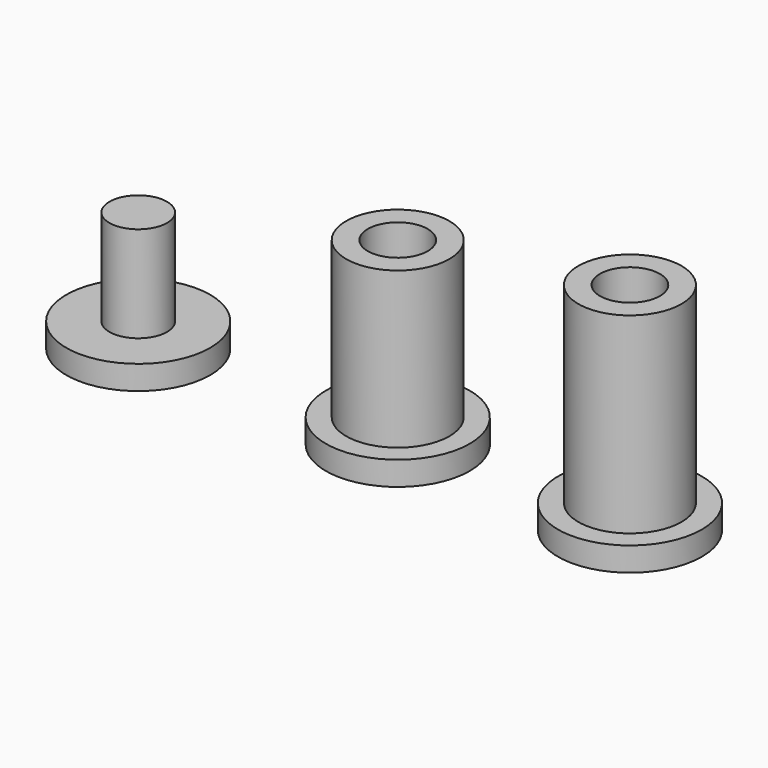
from build123d import *

# Parameters (mm, degrees)
F0_R     = 3
F1_DEPTH = 1
F2_R     = 2.15
F2_R_2   = 1.25
F3_DEPTH = 6.5
F4_R     = 3
F5_DEPTH = 1
F6_R     = 1.2
F7_DEPTH = 4
F9_DEPTH = 1.5


with BuildPart() as f1:
    # F0 (on Top) → F1 (new body)
    with BuildSketch(Plane.XY):
        Circle(F0_R)
    extrude(amount=F1_DEPTH)

    # F2 (on face) → F3 (join)
    with BuildSketch(Plane.XY.offset(1)):
        Circle(F2_R)
        Circle(F2_R_2, mode=Mode.SUBTRACT)
    extrude(amount=F3_DEPTH)


with BuildPart() as f5:
    # F4 (on Top) → F5 (new body)
    with BuildSketch(Plane.XY):
        with Locations((-10.818281211, 0)):
            Circle(F4_R)
    extrude(amount=F5_DEPTH)

    # F6 (on face) → F7 (join)
    with BuildSketch(Plane.XY.offset(1)):
        with Locations((-10.818281211, 0)):
            Circle(F6_R)
    extrude(amount=F7_DEPTH)


with BuildPart() as f8_1:
    # F8: copy of F1
    add(f1.part.moved(Location((9.67785, 0, 0))))

    # F9 (add): a face of the model
    f9_faces = [f8_1.faces().sort_by_distance(p)[0] for p in [
        (7.5886611832, 0, 7.5),
    ]]
    extrude(f9_faces, amount=F9_DEPTH)


solid = Compound([f1.part, f5.part, f8_1.part])
